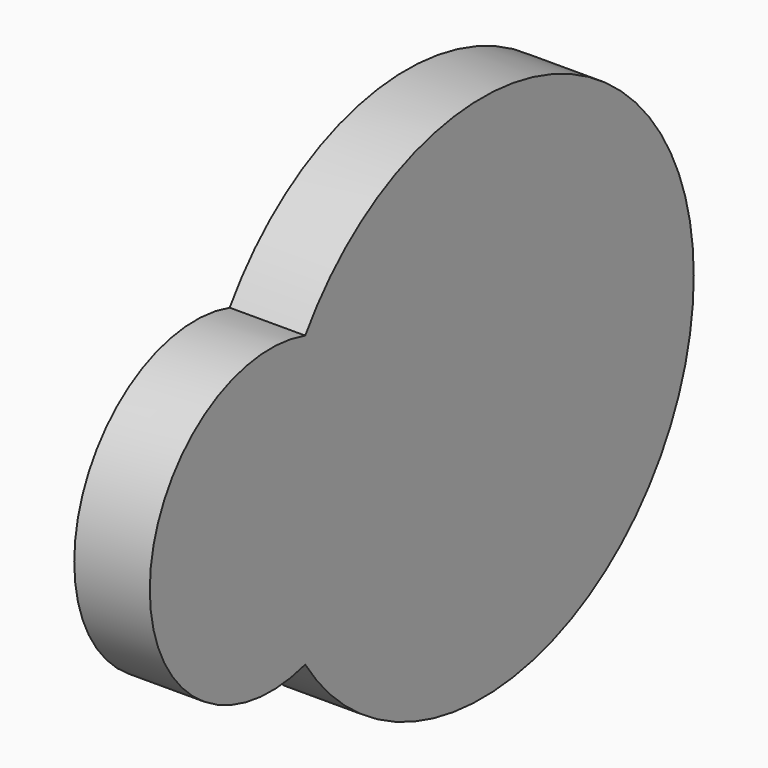
from build123d import *

# Parameters (mm, degrees)
CYLINDER008_R     = 20
CYLINDER008_DEPTH = 10
CYLINDER009_R     = 35
CYLINDER009_DEPTH = 10


with BuildPart() as cylinder008:
    # Cylinder008 → Cylinder008 (new body)
    with BuildSketch(Plane(origin=(-20, -35, 0), x_dir=(0, 0, -1), z_dir=(1, 0, 0))):
        Circle(CYLINDER008_R)
    extrude(amount=CYLINDER008_DEPTH)


with BuildPart() as fusion003:
    # Cylinder009 → Cylinder009 (new body)
    with BuildSketch(Plane(origin=(-20, 0, 0), x_dir=(0, 0, -1), z_dir=(1, 0, 0))):
        Circle(CYLINDER009_R)
    extrude(amount=CYLINDER009_DEPTH)

    # Fusion003: union Cylinder008
    add(cylinder008.part)


solid = fusion003.part
